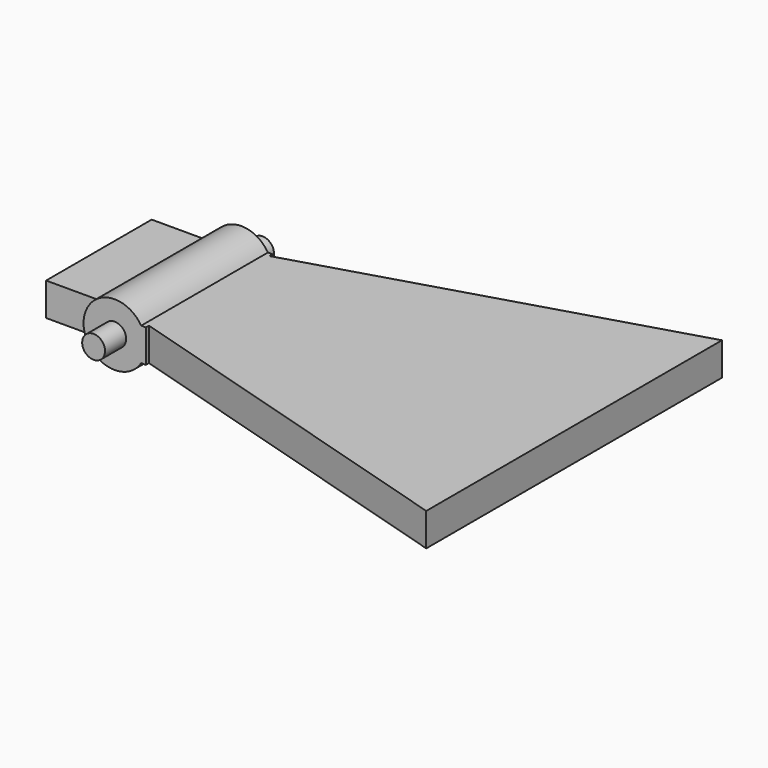
from build123d import *

# Parameters (mm, degrees)
F2_DEPTH = 1.5875
F4_R     = 1.1
F5_DEPTH = 2.54
F3_R     = 1.1
F6_DEPTH = 2.54


with BuildPart() as f1:
    # F0 (on Top) → F1 (revolve)
    with BuildSketch(Plane.XY):
        Polygon((-25.0192951104, 6.35), (-25.0192951104, 0), (-25.0192951104, -6.35), (-22.0192951104, -6.35), (-22.0192951104, 6.35), align=None)
        Polygon((-25.0192951104, 7.62), (-25.0192951104, 6.35), (-22.0192951104, 7.25), (-22.0192951104, 7.62), align=None)
        Polygon((-22.0192951104, -7.25), (-25.0192951104, -6.35), (-25.0192951104, -7.62), (-22.0192951104, -7.62), align=None)
        Polygon((-22.0192951104, -6.35), (-25.0192951104, -6.35), (-22.0192951104, -7.25), align=None)
        Polygon((-22.0192951104, 7.25), (-25.0192951104, 6.35), (-22.0192951104, 6.35), align=None)
    revolve(axis=Axis((-25.0192951104, 3.175, 0), (0, 1, 0)))

    # F0 (on Top) → F2 (join, symmetric)
    with BuildSketch(Plane.XY):
        Polygon((-25.0192951104, 6.35), (-25.0192951104, 0), (-25.0192951104, -6.35), (-22.0192951104, -6.35), (-22.0192951104, 6.35), align=None)
        Polygon((-25.0192951104, -6.35), (-25.0192951104, 0), (-25.0192951104, 6.35), (-32.6392951104, 6.35), (-32.6392951104, -6.35), align=None)
        Polygon((-22.0192951104, -6.35), (-25.0192951104, -6.35), (-22.0192951104, -7.25), align=None)
        Polygon((-22.0192951104, -7.25), (-25.0192951104, -6.35), (-25.0192951104, -7.62), (-22.0192951104, -7.62), align=None)
        Polygon((-25.0192951104, 7.62), (-25.0192951104, 6.35), (-22.0192951104, 7.25), (-22.0192951104, 7.62), align=None)
        Polygon((-22.0192951104, 7.25), (-25.0192951104, 6.35), (-22.0192951104, 6.35), align=None)
        Polygon((-22.0192951104, -6.35), (-22.0192951104, -7.25), (13.0807048896, -17.78), (13.0807048896, 0), (13.0807048896, 17.78), (-22.0192951104, 7.25), (-22.0192951104, 6.35), align=None)
    extrude(amount=F2_DEPTH, both=True)

    # F4 (on face) → F5 (join)
    with BuildSketch(Plane(origin=(0, 7.62, 0), x_dir=(-1, 0, 0), z_dir=(0, 1, 0))):
        with Locations((25.0192951104, 0)):
            Circle(F4_R)
    extrude(amount=F5_DEPTH)

    # F3 (on face) → F6 (join)
    with BuildSketch(Plane.XZ.offset(7.62)):
        with Locations((-25.0192951104, 0)):
            Circle(F3_R)
    extrude(amount=F6_DEPTH)


solid = f1.part
